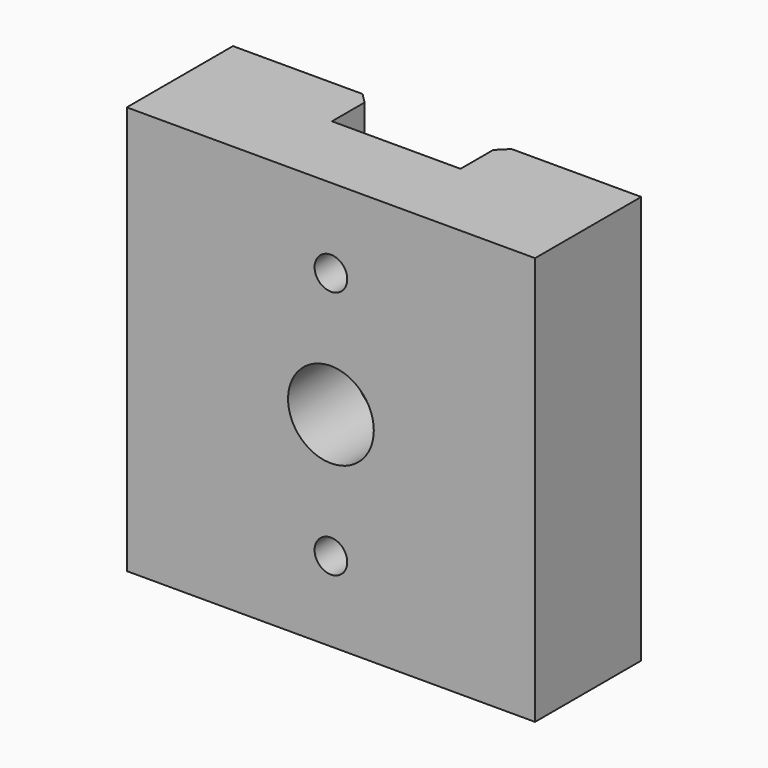
from build123d import *

# Parameters (mm, degrees)
F1_DEPTH = 10
F3_D     = 1.6
F3_DEPTH = 6
F2_R     = 2.1
F4_DEPTH = 25
F5_SIZE  = 0.5


with BuildPart() as f1:
    # F0 (on Top) → F1 (new body, symmetric)
    with BuildSketch(Plane.XY):
        Polygon((-10, -3.25), (10, -3.25), (10, 3.25), (3.15, 3.25), (3.15, 0.75), (-3.15, 0.75), (-3.15, 3.25), (-10, 3.25), align=None)
    extrude(amount=F1_DEPTH, both=True)

    # F3
    with Locations(Plane.XZ.offset(3.25)):
        with Locations((0, 6.1), (0, -6.1)):
            Hole(F3_D / 2, depth=F3_DEPTH)

    # F2 (on face) → F4 (cut)
    with BuildSketch(Plane.XZ.offset(3.25)):
        Circle(F2_R)
    extrude(amount=-F4_DEPTH, mode=Mode.SUBTRACT)

    # F5
    f5_edges = [f1.edges().sort_by_distance(p)[0] for p in [
        (-3.15, 3.25, 0),
        (3.15, 3.25, 0),
    ]]
    chamfer(f5_edges, length=F5_SIZE)


solid = f1.part
